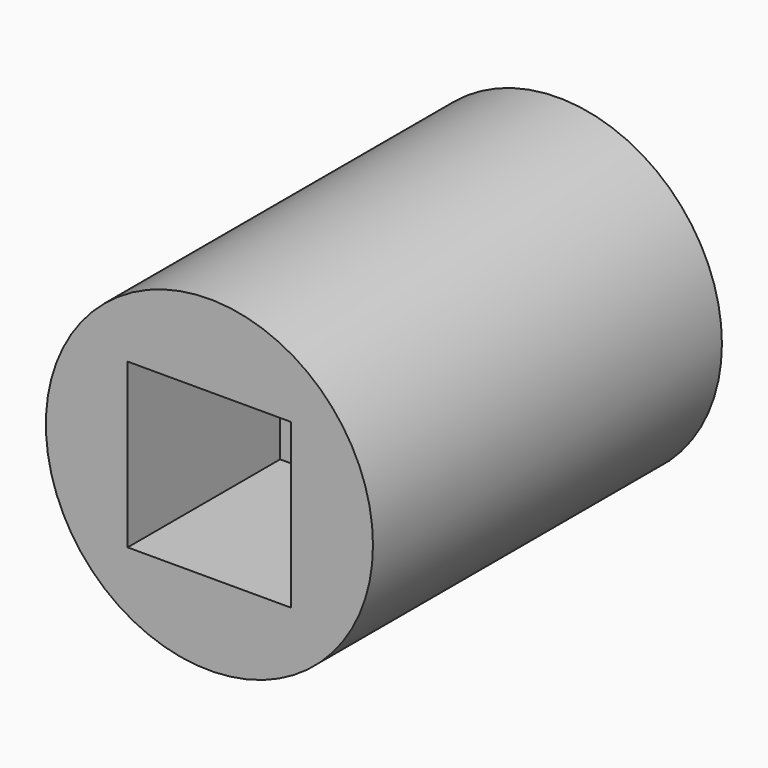
from build123d import *

# Parameters (mm, degrees)
F0_R     = 9.525
F1_DEPTH = 25.4
F3_DEPTH = 25.401
F4_DEPTH = 11.0998


with BuildPart() as f1:
    # F0 (on Front) → F1 (new body)
    with BuildSketch(Plane.XZ):
        Circle(F0_R)
    extrude(amount=F1_DEPTH)

    # F2 (on face) → F3 (cut, through all)
    with BuildSketch(Plane.XZ.offset(25.4)):
        with BuildLine():
            ThreePointArc((-4.7625, 0), (-3.367596, -3.367596), (0, -4.7625))
            ThreePointArc((0, -4.7625), (3.367596, -3.367596), (4.7625, 0))
            ThreePointArc((4.7625, 0), (3.367596, 3.367596), (0, 4.7625))
            ThreePointArc((0, 4.7625), (-3.367596, 3.367596), (-4.7625, 0))
        make_face()
    extrude(amount=-F3_DEPTH, mode=Mode.SUBTRACT)

    # F2 (on face) → F4 (cut)
    with BuildSketch(Plane.XZ.offset(25.4)):
        with BuildLine():
            Line((0, -4.7625), (4.7625, -4.7625))
            Line((4.7625, -4.7625), (4.7625, 0))
            ThreePointArc((4.7625, 0), (3.367596, -3.367596), (0, -4.7625))
        make_face()
        with BuildLine():
            Line((-4.7625, -4.7625), (0, -4.7625))
            ThreePointArc((0, -4.7625), (-3.367596, -3.367596), (-4.7625, 0))
            Line((-4.7625, 0), (-4.7625, -4.7625))
        make_face()
        with BuildLine():
            ThreePointArc((0, 4.7625), (3.367596, 3.367596), (4.7625, 0))
            Line((4.7625, 0), (4.7625, 4.7625))
            Line((4.7625, 4.7625), (0, 4.7625))
        make_face()
        with BuildLine():
            Line((-4.7625, 4.7625), (-4.7625, 0))
            ThreePointArc((-4.7625, 0), (-3.367596, 3.367596), (0, 4.7625))
            Line((0, 4.7625), (-4.7625, 4.7625))
        make_face()
    extrude(amount=-F4_DEPTH, mode=Mode.SUBTRACT)


solid = f1.part
